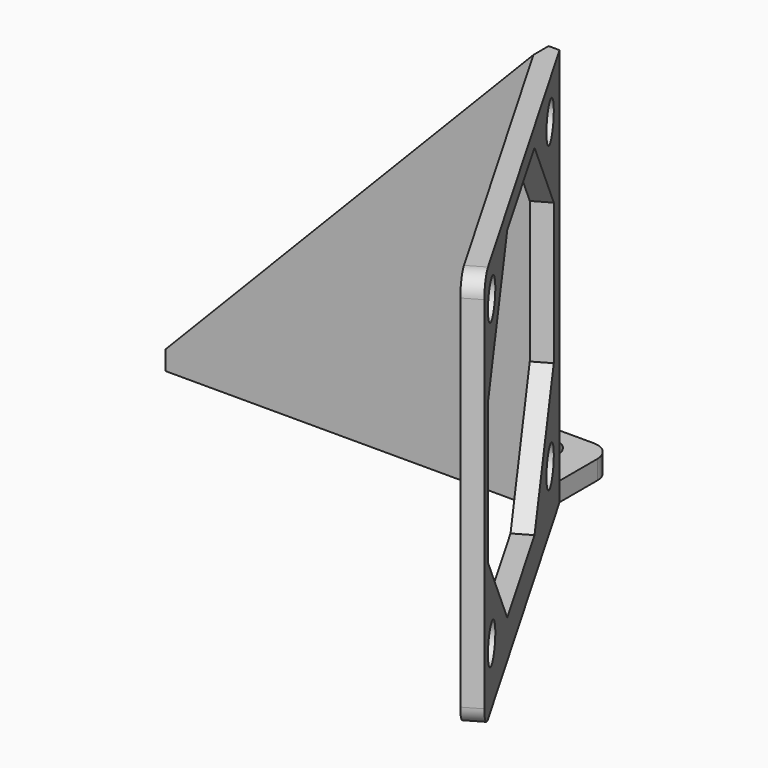
from build123d import *

# Parameters (mm, degrees)
SKETCH_R        = 2
PAD_DEPTH       = 42
SKETCH001_W     = 40
SKETCH001_H     = 7
POCKET_DEPTH    = 40
POCKET001_DEPTH = 5
SKETCH003_R     = 2
POCKET002_DEPTH = 5
FILLET_R        = 2


with BuildPart() as part:
    # Sketch → Pad (new body)
    with BuildSketch(Plane.XY):
        Polygon((0, 0), (38.845299, 0), (58.845299, -34.641016), (60.57735, -33.641016), (40, 2), (40, 9), (0, 9), align=None)
        with Locations((5, 5.5)):
            Circle(SKETCH_R, mode=Mode.SUBTRACT)
        with Locations((35, 5.5)):
            Circle(SKETCH_R, mode=Mode.SUBTRACT)
    extrude(amount=PAD_DEPTH)

    # Sketch001 (on Face11 of Pad) → Pocket (cut)
    with BuildSketch(Plane.XY.offset(42)):
        with Locations((20, 5.5)):
            Rectangle(SKETCH001_W, SKETCH001_H)
    extrude(amount=-POCKET_DEPTH, mode=Mode.SUBTRACT)

    # Sketch002 (on Face6 of Pocket) → Pocket001 (cut)
    with BuildSketch(Plane.XZ):
        Polygon((0, 2), (0, 42), (38.845299, 42), align=None)
    extrude(amount=-POCKET001_DEPTH, mode=Mode.SUBTRACT)

    # Sketch003 (on Face9 of Pocket001) → Pocket002 (cut)
    with BuildSketch(Plane(origin=(30.866025, 17.820508, 0), x_dir=(-0.5, 0.866025, 0), z_dir=(0.866025, 0.5, 0))):
        with Locations((-55.42265, 38)):
            Circle(SKETCH003_R)
        with Locations((-23.42265, 38)):
            Circle(SKETCH003_R)
        with Locations((-23.42265, 6)):
            Circle(SKETCH003_R)
        with Locations((-55.42265, 6)):
            Circle(SKETCH003_R)
        Polygon((-21.42265, 29.455844), (-31.966806, 40), (-46.878494, 40), (-57.42265, 29.455844), (-57.42265, 14.544156), (-46.878494, 4), (-31.966806, 4), (-21.42265, 14.544156), align=None)
    extrude(amount=-POCKET002_DEPTH, mode=Mode.SUBTRACT)

    # Fillet
    fillet_edges = [part.edges().sort_by_distance(p)[0] for p in [
        (59.711325, -34.141016, 42),
        (59.711325, -34.141016, 0),
        (40, 9, 1),
        (0, 9, 1),
    ]]
    fillet(fillet_edges, radius=FILLET_R)


solid = part.part
